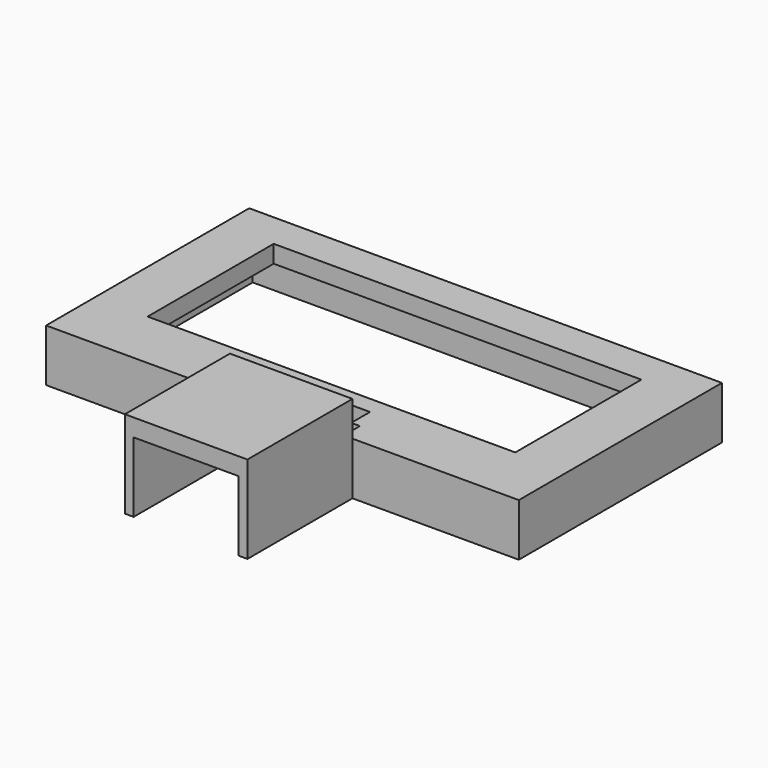
from build123d import *

# Parameters (mm, degrees)
F0_W      = 54
F0_H      = 29
F2_DEPTH  = 6
F1_W      = 42
F1_H      = 18
F3_DEPTH  = 25.4
F4_W      = 50
F4_H      = 25
F5_DEPTH  = 4
F6_W      = 10
F6_H      = 6
F7_DEPTH  = 5
F8_W      = 14
F8_H      = 10
F9_DEPTH  = 15
F10_W     = 12
F10_H     = 18.710866
F11_DEPTH = 8


with BuildPart() as f2:
    # F0 (on Top) → F2 (new body)
    with BuildSketch(Plane.XY):
        Rectangle(F0_W, F0_H)
    extrude(amount=F2_DEPTH)

    # F1 (on face) → F3 (cut)
    with BuildSketch(Plane.XY):
        with Locations((0, 1.5)):
            Rectangle(F1_W, F1_H)
    extrude(amount=F3_DEPTH, mode=Mode.SUBTRACT)

    # F4 (on face) → F5 (cut)
    with BuildSketch(Plane(origin=(0, 0, 0), x_dir=(1, 0, 0), z_dir=(0, 0, -1))):
        Rectangle(F4_W, F4_H)
    extrude(amount=-F5_DEPTH, mode=Mode.SUBTRACT)

    # F6 (on face) → F7 (cut)
    with BuildSketch(Plane.XZ.offset(14.5)):
        with Locations((1, 3)):
            Rectangle(F6_W, F6_H)
    extrude(amount=-F7_DEPTH, mode=Mode.SUBTRACT)

    # F8 (on face) → F9 (join)
    with BuildSketch(Plane.XZ.offset(14.5)):
        with Locations((1, 5)):
            Rectangle(F8_W, F8_H)
    extrude(amount=F9_DEPTH)

    # F10 (on face) → F11 (cut)
    with BuildSketch(Plane(origin=(0, 0, 0), x_dir=(1, 0, 0), z_dir=(0, 0, -1))):
        with Locations((1, 21.539463)):
            Rectangle(F10_W, F10_H)
    extrude(amount=-F11_DEPTH, mode=Mode.SUBTRACT)


solid = f2.part
